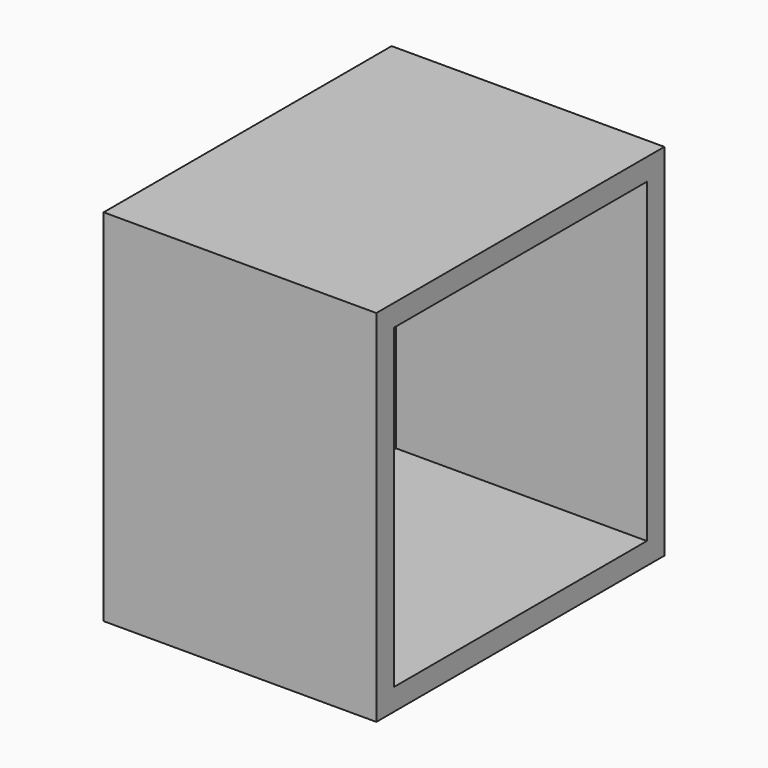
from build123d import *

# Parameters (mm, degrees)
F1_DEPTH = 41.91
F2_T     = -2.54


with BuildPart() as f1:
    # F0 (on Top) → F1 (new body)
    with BuildSketch(Plane.XY):
        Polygon((-14.605, -20.955), (14.605, -20.955), (15.875, -20.955), (15.875, 20.955), (14.605, 20.955), (-14.605, 20.955), (-15.875, 20.955), (-15.875, -20.955), align=None)
    extrude(amount=F1_DEPTH)

    # F2
    f2_openings = [f1.faces().sort_by_distance(p)[0] for p in [
        (15.875, 0, 20.955),
    ]]
    offset(amount=F2_T, openings=f2_openings)


solid = f1.part
